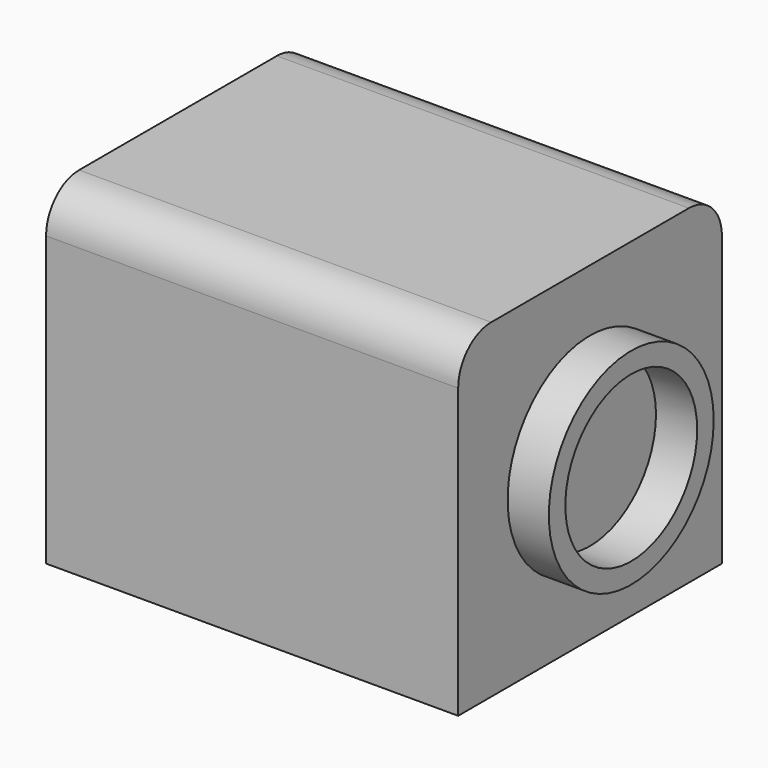
from build123d import *

# Parameters (mm, degrees)
F0_W     = 100
F0_H     = 80
F1_DEPTH = 80
F2_R     = 10
F3_R     = 25
F4_DEPTH = 10
F5_R     = 20
F6_DEPTH = 10


with BuildPart() as f1:
    # F0 (on Top) → F1 (new body)
    with BuildSketch(Plane.XY):
        Rectangle(F0_W, F0_H)
    extrude(amount=F1_DEPTH)

    # F2
    f2_edges = [f1.edges().sort_by_distance(p)[0] for p in [
        (0, -40, 80),
        (0, 40, 80),
    ]]
    fillet(f2_edges, radius=F2_R)

    # F3 (on face) → F4 (join)
    with BuildSketch(Plane.YZ.offset(50)):
        with Locations((0, 40)):
            Circle(F3_R)
    extrude(amount=F4_DEPTH)

    # F5 (on face) → F6 (cut)
    with BuildSketch(Plane.YZ.offset(60)):
        with Locations((0, 40)):
            Circle(F5_R)
    extrude(amount=-F6_DEPTH, mode=Mode.SUBTRACT)


solid = f1.part
